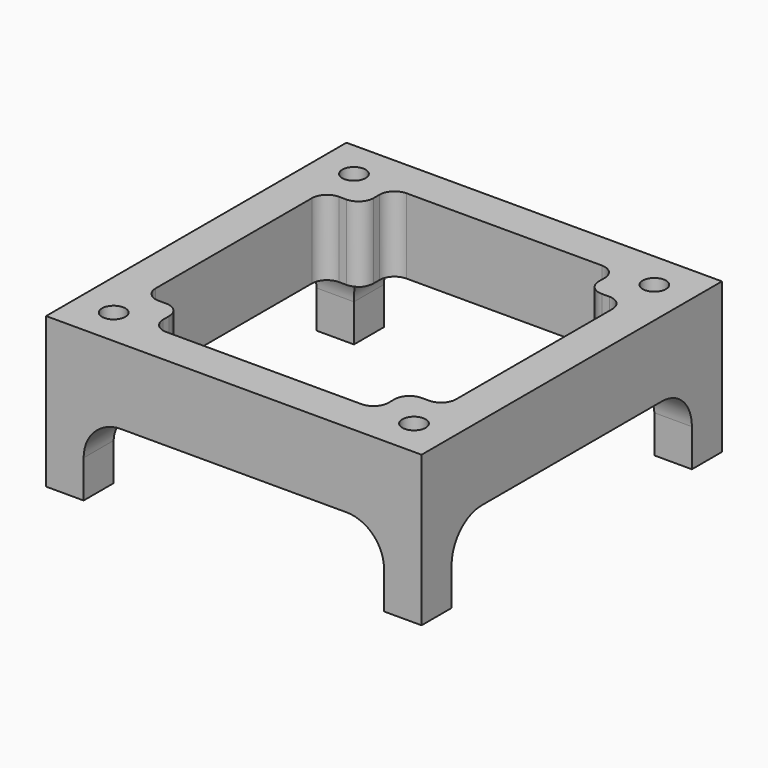
from build123d import *

# Parameters (mm, degrees)
SKETCH010_W     = 50
SKETCH010_H     = 50
PAD002_DEPTH    = 20
POCKET009_DEPTH = 20.001
POCKET010_DEPTH = 50.001
POCKET011_DEPTH = 50.001
SKETCH014_R     = 1.55
POCKET012_DEPTH = 5


with BuildPart() as part:
    # Sketch010 → Pad002 (new body)
    with BuildSketch(Plane.XY):
        Rectangle(SKETCH010_W, SKETCH010_H)
    extrude(amount=PAD002_DEPTH)

    # Sketch011 (on Face6 of Pad002) → Pocket009 (cut, through all)
    with BuildSketch(Plane.XY.offset(20)):
        with BuildLine():
            Line((-18, 15), (-17, 15))
            ThreePointArc((-17, 15), (-15.585786, 15.585786), (-15, 17))
            Line((-15, 17), (-15, 18))
            ThreePointArc((-13, 20), (-14.414214, 19.414214), (-15, 18))
            Line((-13, 20), (13, 20))
            ThreePointArc((15, 18), (14.414214, 19.414214), (13, 20))
            Line((15, 18), (15, 17))
            ThreePointArc((15, 17), (15.585786, 15.585786), (17, 15))
            Line((17, 15), (18, 15))
            ThreePointArc((20, 13), (19.414214, 14.414214), (18, 15))
            Line((20, 13), (20, -13))
            ThreePointArc((18, -15), (19.414214, -14.414214), (20, -13))
            Line((18, -15), (17, -15))
            ThreePointArc((17, -15), (15.585786, -15.585786), (15, -17))
            Line((15, -17), (15, -18))
            ThreePointArc((13, -20), (14.414214, -19.414214), (15, -18))
            Line((13, -20), (-13, -20))
            ThreePointArc((-15, -18), (-14.414214, -19.414214), (-13, -20))
            Line((-15, -18), (-15, -17))
            ThreePointArc((-15, -17), (-15.585786, -15.585786), (-17, -15))
            Line((-17, -15), (-18, -15))
            ThreePointArc((-20, -13), (-19.414214, -14.414214), (-18, -15))
            Line((-20, -13), (-20, 13))
            ThreePointArc((-18, 15), (-19.414214, 14.414214), (-20, 13))
        make_face()
    extrude(amount=-POCKET009_DEPTH, mode=Mode.SUBTRACT)

    # Sketch012 (on Face3 of Pocket009) → Pocket010 (cut, through all)
    with BuildSketch(Plane.YZ.offset(25)):
        with BuildLine():
            Line((-15, 10), (15, 10))
            ThreePointArc((20, 5), (18.535534, 8.535534), (15, 10))
            Line((20, 5), (20, 0))
            Line((20, 0), (-20, 0))
            Line((-20, 0), (-20, 5))
            ThreePointArc((-15, 10), (-18.535534, 8.535534), (-20, 5))
        make_face()
    extrude(amount=-POCKET010_DEPTH, mode=Mode.SUBTRACT)

    # Sketch013 (on Face6 of Pocket009) → Pocket011 (cut, through all)
    with BuildSketch(Plane.XZ.offset(25)):
        with BuildLine():
            Line((-15, 10), (15, 10))
            ThreePointArc((20, 5), (18.535534, 8.535534), (15, 10))
            Line((20, 5), (20, 0))
            Line((20, 0), (-20, 0))
            Line((-20, 0), (-20, 5))
            ThreePointArc((-15, 10), (-18.535534, 8.535534), (-20, 5))
        make_face()
    extrude(amount=-POCKET011_DEPTH, mode=Mode.SUBTRACT)

    # Sketch014 → Pocket012 (cut)
    with BuildSketch(Plane.XY.offset(20)):
        with Locations((-20, 20)):
            Circle(SKETCH014_R)
        with Locations((20, 20)):
            Circle(SKETCH014_R)
        with Locations((20, -20)):
            Circle(SKETCH014_R)
        with Locations((-20, -20)):
            Circle(SKETCH014_R)
    extrude(amount=-POCKET012_DEPTH, mode=Mode.SUBTRACT)


with BuildPart() as part_1:
    # Body003 placement: moved
    add(part.part.moved(Location((85, 85, 0))))


solid = part_1.part
